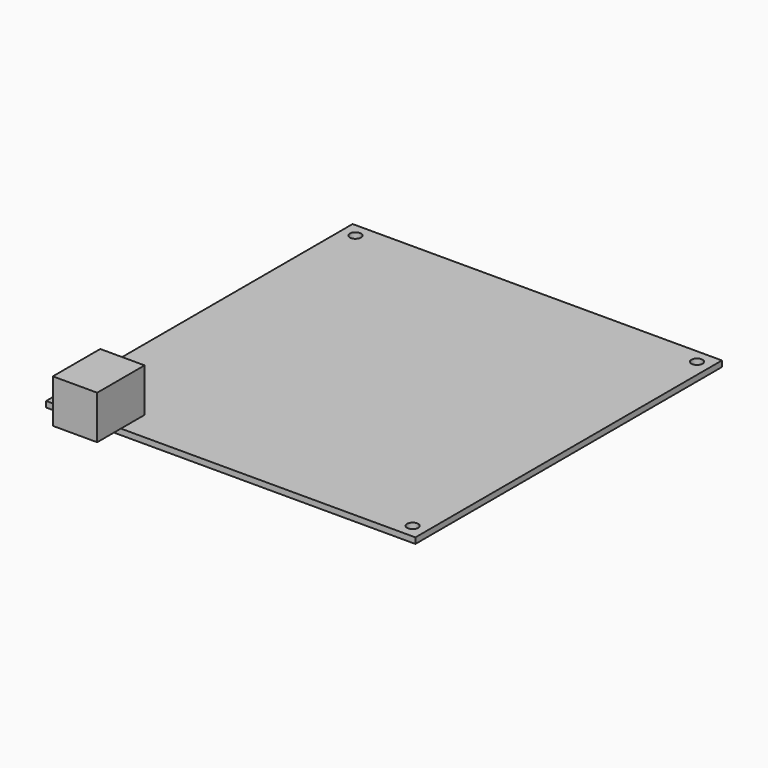
from build123d import *

# Parameters (mm, degrees)
F0_W     = 101.6
F0_H     = 105.41
F0_R     = 1.524
F1_DEPTH = 1.6
F2_W     = 12.2
F2_H     = 16.3
F3_DEPTH = 12


with BuildPart() as f1:
    # F0 (on Top) → F1 (new body)
    with BuildSketch(Plane.XY):
        Rectangle(F0_W, F0_H)
        with Locations((-46.99, -48.895)):
            Circle(F0_R, mode=Mode.SUBTRACT)
        with Locations((46.99, -48.895)):
            Circle(F0_R, mode=Mode.SUBTRACT)
        with Locations((-46.99, 48.895)):
            Circle(F0_R, mode=Mode.SUBTRACT)
        with Locations((46.99, 48.895)):
            Circle(F0_R, mode=Mode.SUBTRACT)
    extrude(amount=F1_DEPTH)


with BuildPart() as f3:
    # F2 (on face) → F3 (new body)
    with BuildSketch(Plane.XY.offset(1.6)):
        with Locations((-36.32, -52.705)):
            Rectangle(F2_W, F2_H)
    extrude(amount=F3_DEPTH)


solid = Compound([f1.part, f3.part])
